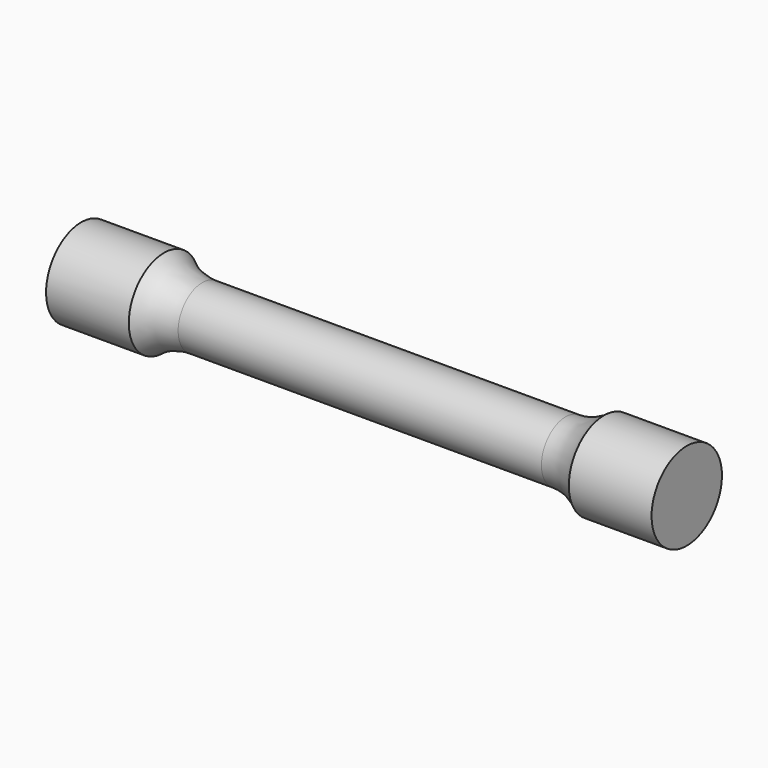
from build123d import *


with BuildPart() as f1:
    # F0 (on Front) → F1 (revolve)
    with BuildSketch(Plane.XZ):
        with BuildLine():
            Line((12, 2), (0, 2))
            Line((0, 2), (-12, 2))
            ThreePointArc((-12, 2), (-13.345346, 2.233032), (-14.533937, 2.904978))
            Line((-14.533937, 2.904978), (-20, 2.904978))
            Line((-20, 2.904978), (-20, 0))
            Line((-20, 0), (0, 0))
            Line((0, 0), (20, 0))
            Line((20, 0), (20, 2.904978))
            Line((20, 2.904978), (14.533937, 2.904978))
            ThreePointArc((14.533937, 2.904978), (13.345346, 2.233032), (12, 2))
        make_face()
    revolve(axis=Axis((10, 0, 0), (-1, 0, 0)))


solid = f1.part
